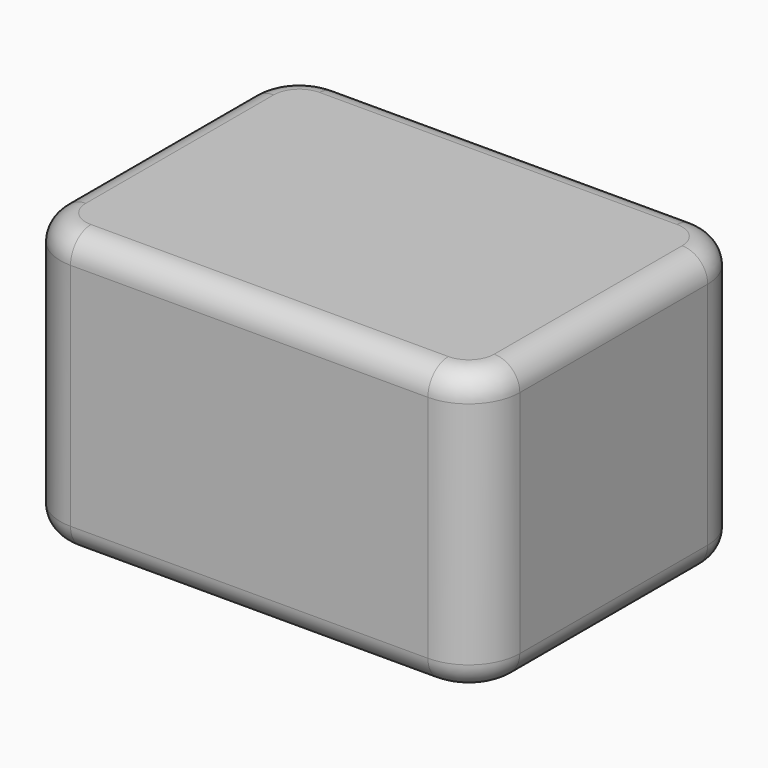
from build123d import *

# Parameters (mm, degrees)
F0_W     = 90
F0_H     = 66
F1_DEPTH = 55
F2_R     = 10
F3_R     = 5


with BuildPart() as f1:
    # F0 (on Top) → F1 (new body)
    with BuildSketch(Plane.XY):
        with Locations((45, 33)):
            Rectangle(F0_W, F0_H)
    extrude(amount=F1_DEPTH)

    # F2
    f2_edges = [f1.edges().sort_by_distance(p)[0] for p in [
        (90, 0, 27.5),
        (90, 66, 27.5),
        (0, 66, 27.5),
        (0, 0, 27.5),
    ]]
    fillet(f2_edges, radius=F2_R)

    # F3
    f3_edges = [f1.edges().sort_by_distance(p)[0] for p in [
        (0, 33, 0),
        (2.928932, 63.071068, 0),
        (2.928932, 2.928932, 0),
        (45, 66, 0),
        (45, 0, 0),
        (87.071068, 63.071068, 0),
        (87.071068, 2.928932, 0),
        (90, 33, 0),
        (0, 33, 55),
        (2.928932, 63.071068, 55),
        (2.928932, 2.928932, 55),
        (45, 66, 55),
        (45, 0, 55),
        (87.071068, 63.071068, 55),
        (87.071068, 2.928932, 55),
        (90, 33, 55),
    ]]
    fillet(f3_edges, radius=F3_R)


solid = f1.part
